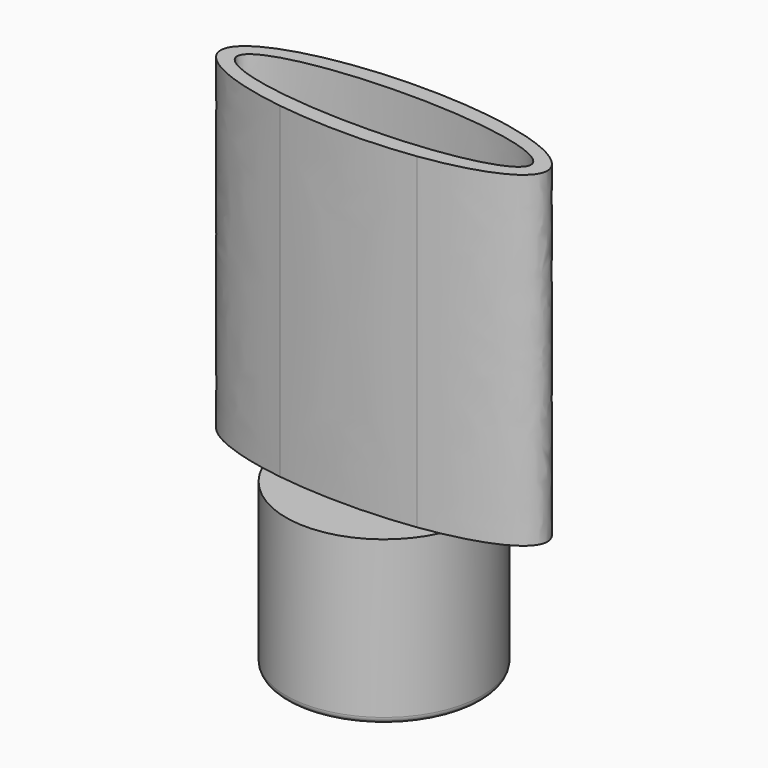
from build123d import *

# Parameters (mm, degrees)
F1_DEPTH = 63.5
F2_R     = 19.05
F3_DEPTH = 31.75
F4_R     = 15.875
F5_DEPTH = 25.4
F8_DEPTH = 57.15
F9_R     = 1.27


with BuildPart() as f1:
    # F0 (on Top) → F1 (new body)
    with BuildSketch(Plane.XY):
        with BuildLine():
            add(Edge.make_bspline(
                [(13.3132174264, -8.647188373), (31.75, -6.0925128414), (31.75, 0)],
                knots=[5.1450784578, 5.1450784578, 5.1450784578, 6.2831853072, 6.2831853072, 6.2831853072], degree=2, weights=[1, 0.8424114003, 1]))
            add(Edge.make_bspline(
                [(31.75, 0), (31.75, 6.0925128414), (13.3132174264, 8.647188373)],
                knots=[0, 0, 0, 1.1381068494, 1.1381068494, 1.1381068494], degree=2, weights=[1, 0.8424114003, 1]))
            ThreePointArc((13.3132174264, 8.647188373), (15.2210865519, 4.5093402154), (15.875, 0))
            ThreePointArc((15.875, 0), (15.2210865519, -4.5093402154), (13.3132174264, -8.647188373))
        make_face()
        with BuildLine():
            ThreePointArc((15.875, 0), (15.2210865519, 4.5093402154), (13.3132174264, 8.647188373))
            add(Edge.make_bspline(
                [(13.3132174264, 8.647188373), (0, 10.4919218926), (-13.3132174264, 8.647188373)],
                knots=[1.1381068494, 1.1381068494, 1.1381068494, 2.0034858042, 2.0034858042, 2.0034858042], degree=2, weights=[1, 0.907841299, 1]))
            ThreePointArc((-13.3132174264, 8.647188373), (-15.875, 0), (-13.3132174264, -8.647188373))
            add(Edge.make_bspline(
                [(-13.3132174264, -8.647188373), (0, -10.4919218926), (13.3132174264, -8.647188373)],
                knots=[4.2796995029, 4.2796995029, 4.2796995029, 5.1450784578, 5.1450784578, 5.1450784578], degree=2, weights=[1, 0.907841299, 1]))
            ThreePointArc((13.3132174264, -8.647188373), (15.2210865519, -4.5093402154), (15.875, 0))
        make_face()
        with BuildLine():
            ThreePointArc((-13.3132174264, -8.647188373), (-15.875, 0), (-13.3132174264, 8.647188373))
            add(Edge.make_bspline(
                [(-13.3132174264, 8.647188373), (-75.7189241125, 0), (-13.3132174264, -8.647188373)],
                knots=[2.0034858042, 2.0034858042, 2.0034858042, 4.2796995029, 4.2796995029, 4.2796995029], degree=2, weights=[1, 0.4193139347, 1]))
        make_face()
    extrude(amount=F1_DEPTH)

    # F2 (on Top) → F3 (join)
    with BuildSketch(Plane.XY):
        Circle(F2_R)
    extrude(amount=-F3_DEPTH)

    # F4 (on face) → F5 (cut)
    with BuildSketch(Plane(origin=(0, 0, -31.75), x_dir=(1, 0, 0), z_dir=(0, 0, -1))):
        Circle(F4_R)
    extrude(amount=-F5_DEPTH, mode=Mode.SUBTRACT)

    # F7 (on face) → F8 (cut)
    with BuildSketch(Plane.XY.offset(63.5)):
        with BuildLine():
            add(Edge.make_bspline(
                [(28.575, 0), (28.575, 10.9985226281), (-14.2875, 5.499261314), (-57.15, 0), (-14.2875, -5.499261314), (28.575, -10.9985226281), (28.575, 0)],
                knots=[0, 0, 0, 2.0943951024, 2.0943951024, 4.1887902048, 4.1887902048, 6.2831853072, 6.2831853072, 6.2831853072], degree=2, weights=[1, 0.5, 1, 0.5, 1, 0.5, 1]))
        make_face()
    extrude(amount=-F8_DEPTH, mode=Mode.SUBTRACT)

    # F9
    f9_edges = [f1.edges().sort_by_distance(p)[0] for p in [
        (-19.05, 0, -31.75),
    ]]
    fillet(f9_edges, radius=F9_R)


solid = f1.part
